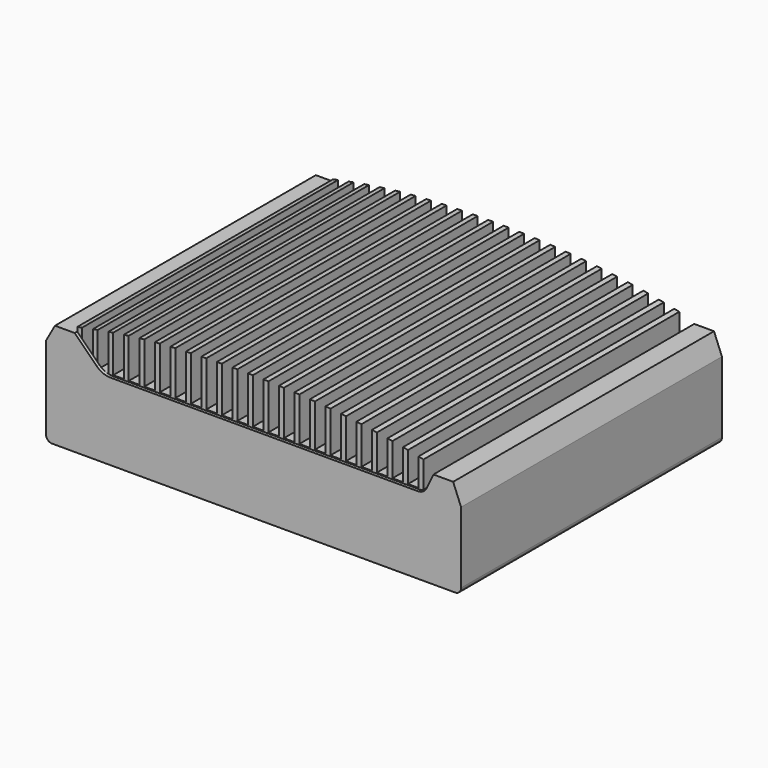
from build123d import *

# Parameters (mm, degrees)
F1_DEPTH  = 165
F4_W      = 2.5
F4_H      = 25
F6_DEPTH  = 161.8
F8_DEPTH  = 163.401
F9_W      = 23.55
F9_H      = 19.5065644085
F10_DEPTH = 161.8


with BuildPart() as f1:
    # F0 (on Front) → F1 (new body)
    with BuildSketch(Plane.XZ):
        with BuildLine():
            Line((-102, 0), (102, 0))
            ThreePointArc((102, 0), (104.1213203436, 0.8786796564), (105, 3))
            Line((105, 3), (105, 39))
            Line((105, 39), (101, 49))
            Line((101, 49), (91, 49))
            Line((91, 49), (87.6831110496, 41.8869086913))
            ThreePointArc((87.6831110496, 41.8869086913), (85.8380701561, 39.7830427709), (83.1515721144, 39))
            Line((83.1515721144, 39), (-72.3578643763, 39))
            ThreePointArc((-72.3578643763, 39), (-76.1846986999, 39.7612046749), (-79.4289321881, 41.9289321881))
            Line((-79.4289321881, 41.9289321881), (-90.5, 53))
            Line((-90.5, 53), (-100.5, 53))
            Line((-100.5, 53), (-105, 45))
            Line((-105, 45), (-105, 3))
            ThreePointArc((-105, 3), (-104.1213203436, 0.8786796564), (-102, 0))
        make_face()
    extrude(amount=-F1_DEPTH)

    # F9 (on offset) → F10 (cut, through all)
    with BuildSketch(Plane.XZ.offset(-1.6)):
        with Locations((-78.725, 45.7709795088)):
            Rectangle(F9_W, F9_H)
    extrude(amount=-F10_DEPTH, mode=Mode.SUBTRACT)


with BuildPart() as f6:
    # F4 (on offset) → F6 (new body, through all)
    with BuildSketch(Plane.XZ.offset(-1.6)):
        Polygon((-88, 64), (-90.5, 64), (-90.5, 39), (-90.5, 18.8041441143), (96.0848554969, 18.8041441143), (96.0848554969, 39), (84.7, 39), (84.7, 64), (82.2, 64), (82.2, 39), (76.85, 39), (76.85, 64), (74.35, 64), (74.35, 39), (69, 39), (69, 64), (66.5, 64), (66.5, 39), (61.15, 39), (61.15, 64), (58.65, 64), (58.65, 39), (53.3, 39), (53.3, 64), (50.8, 64), (50.8, 39), (45.45, 39), (45.45, 64), (42.95, 64), (42.95, 39), (37.6, 39), (37.6, 64), (35.1, 64), (35.1, 39), (29.75, 39), (29.75, 64), (27.25, 64), (27.25, 39), (21.9, 39), (21.9, 64), (19.4, 64), (19.4, 39), (14.05, 39), (14.05, 64), (11.55, 64), (11.55, 39), (6.2, 39), (6.2, 64), (3.7, 64), (3.7, 39), (-1.65, 39), (-1.65, 64), (-4.15, 64), (-4.15, 39), (-9.5, 39), (-9.5, 64), (-12, 64), (-12, 39), (-17.35, 39), (-17.35, 64), (-19.85, 64), (-19.85, 39), (-25.2, 39), (-25.2, 64), (-27.7, 64), (-27.7, 39), (-33.05, 39), (-33.05, 64), (-35.55, 64), (-35.55, 39), (-40.9, 39), (-40.9, 64), (-43.4, 64), (-43.4, 39), (-48.75, 39), (-48.75, 64), (-51.25, 64), (-51.25, 39), (-56.6, 39), (-56.6, 64), (-59.1, 64), (-59.1, 39), (-64.45, 39), (-64.45, 64), (-66.95, 64), (-66.95, 39), (-72.3, 39), (-72.3, 64), (-74.8, 64), (-74.8, 39), (-80.15, 39), (-82.65, 39), (-88, 39), align=None)
        with Locations((-81.4, 51.5)):
            Rectangle(F4_W, F4_H)
    extrude(amount=-F6_DEPTH)


with BuildPart() as f6_1:
    # F7: moved
    add(f6.part.moved(Location((0, 0, 0.5))))

    # F3 (on offset) → F8 (cut, through all)
    with BuildSketch(Plane.XZ.offset(-1.6)):
        with BuildLine():
            Line((-100.5, 107.3550209403), (-100.5, 53))
            add(Edge.make_bspline(
                [(-100.5, 53), (-71.5676539137, 59.1392371643), (-38.4416897728, 63.7644448094), (50.4576464914, 62.8386841544), (101, 49)],
                knots=[0, 0, 0, 0, 0.4102576727, 1, 1, 1, 1], degree=3))
            Line((101, 49), (101, 107.3550209403))
            Line((101, 107.3550209403), (-100.5, 107.3550209403))
        make_face()
    extrude(amount=-F8_DEPTH, mode=Mode.SUBTRACT)


solid = Compound([f1.part, f6_1.part])
